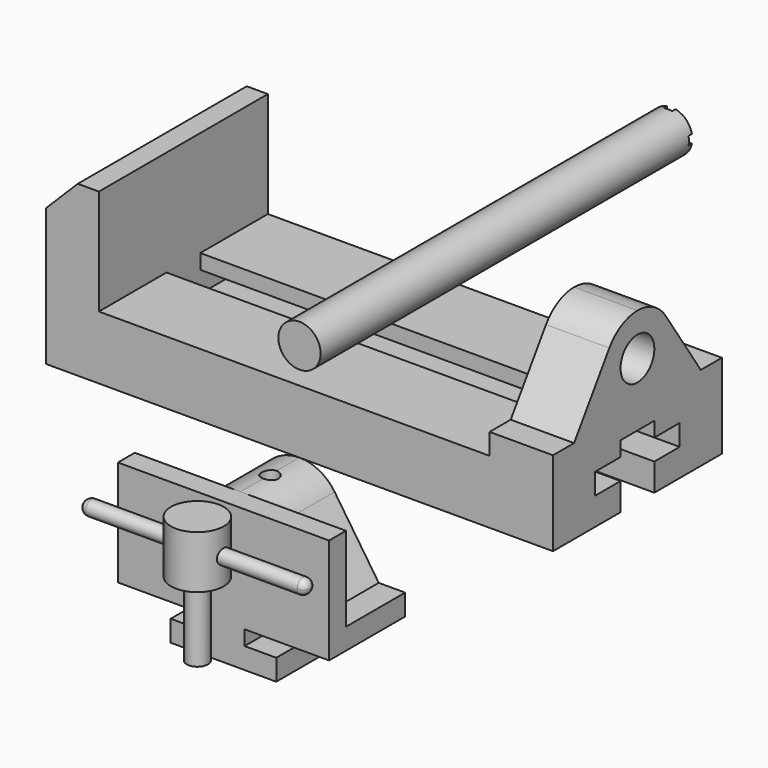
from build123d import *

# Parameters (mm, degrees)
F1_DEPTH  = 127
F2_R      = 12.7
F3_DEPTH  = 38.1
F4_DEPTH  = 273.05
F5_R      = 12.7
F6_DEPTH  = 57.15
F7_R      = 5.08
F8_DEPTH  = 31.75
F9_DEPTH  = 44.45
F10_DEPTH = 44.45
F11_R     = 12.7
F12_DEPTH = 279.4
F14_DEPTH = 19.05
F15_DEPTH = 2.54
F16_R     = 15.875
F17_DEPTH = 31.75
F18_R     = 6.35
F19_DEPTH = 44.45
F20_R     = 4.445
F21_DEPTH = 127


with BuildPart() as f1:
    # F0 (on Front) → F1 (new body)
    with BuildSketch(Plane.XZ):
        Polygon((-152.4, 82.55), (-152.4, 0), (152.4, 0), (152.4, 101.6), (114.3, 101.6), (114.3, 38.1), (-120.65, 38.1), (-120.65, 101.6), (-133.35, 101.6), align=None)
    extrude(amount=-F1_DEPTH)

    # F2 (on face) → F3 (cut, through all)
    with BuildSketch(Plane.YZ.offset(152.4)):
        with BuildLine():
            Line((0, 101.6), (0, 50.8))
            Line((0, 50.8), (15.875, 50.8))
            Line((15.875, 50.8), (42.4065743945, 90.3501730104))
            ThreePointArc((42.4065743945, 90.3501730104), (51.5470588235, 98.6117647059), (63.5, 101.6))
            Line((63.5, 101.6), (0, 101.6))
        make_face()
        with BuildLine():
            Line((127, 101.6), (63.5, 101.6))
            ThreePointArc((63.5, 101.6), (75.4529411765, 98.6117647059), (84.5934256055, 90.3501730104))
            Line((84.5934256055, 90.3501730104), (111.125, 50.8))
            Line((111.125, 50.8), (127, 50.8))
            Line((127, 50.8), (127, 101.6))
        make_face()
        with Locations((63.5, 76.2)):
            Circle(F2_R)
    extrude(amount=-F3_DEPTH, mode=Mode.SUBTRACT)

    # F2 (on face) → F4 (cut, through all)
    with BuildSketch(Plane.YZ.offset(152.4)):
        Polygon((50.8, 16.51), (50.8, 0), (76.2, 0), (76.2, 16.51), (95.25, 16.51), (95.25, 29.21), (76.2, 29.21), (76.2, 38.1), (50.8, 38.1), (50.8, 29.21), (31.75, 29.21), (31.75, 16.51), align=None)
    extrude(amount=-F4_DEPTH, mode=Mode.SUBTRACT)


with BuildPart() as f6:
    # F5 (on Front) → F6 (new body)
    with BuildSketch(Plane.XZ):
        with BuildLine():
            Line((-63.5, -50.8), (-63.5, -63.5))
            Line((-63.5, -63.5), (-12.7, -63.5))
            Line((-12.7, -63.5), (-12.7, -72.39))
            Line((-12.7, -72.39), (-31.75, -72.39))
            Line((-31.75, -72.39), (-31.75, -85.09))
            Line((-31.75, -85.09), (31.75, -85.09))
            Line((31.75, -85.09), (31.75, -72.39))
            Line((31.75, -72.39), (12.7, -72.39))
            Line((12.7, -72.39), (12.7, -63.5))
            Line((12.7, -63.5), (63.5, -63.5))
            Line((63.5, -63.5), (63.5, -50.8))
            Line((63.5, -50.8), (47.625, -50.8))
            Line((47.625, -50.8), (21.0934256055, -11.2498269896))
            ThreePointArc((21.0934256055, -11.2498269896), (11.9529411765, -2.9882352941), (0, 0))
            ThreePointArc((0, 0), (-11.9529411765, -2.9882352941), (-21.0934256055, -11.2498269896))
            Line((-21.0934256055, -11.2498269896), (-47.625, -50.8))
            Line((-47.625, -50.8), (-63.5, -50.8))
        make_face()
        with Locations((0, -25.4)):
            Circle(F5_R, mode=Mode.SUBTRACT)
        with BuildLine():
            Line((-63.5, 0), (-63.5, -50.8))
            Line((-63.5, -50.8), (-47.625, -50.8))
            Line((-47.625, -50.8), (-21.0934256055, -11.2498269896))
            ThreePointArc((-21.0934256055, -11.2498269896), (-11.9529411765, -2.9882352941), (0, 0))
            Line((0, 0), (-63.5, 0))
        make_face()
        with BuildLine():
            Line((63.5, 0), (0, 0))
            ThreePointArc((0, 0), (11.9529411765, -2.9882352941), (21.0934256055, -11.2498269896))
            Line((21.0934256055, -11.2498269896), (47.625, -50.8))
            Line((47.625, -50.8), (63.5, -50.8))
            Line((63.5, -50.8), (63.5, 0))
        make_face()
        with Locations((0, -25.4)):
            Circle(F5_R)
    extrude(amount=F6_DEPTH)

    # F7 (on face) → F8 (cut)
    with BuildSketch(Plane.XY):
        with Locations((0, -22.225)):
            Circle(F7_R)
    extrude(amount=-F8_DEPTH, mode=Mode.SUBTRACT)

    # F5 (on Front) → F9 (cut)
    with BuildSketch(Plane.XZ):
        with BuildLine():
            Line((63.5, 0), (0, 0))
            ThreePointArc((0, 0), (11.9529411765, -2.9882352941), (21.0934256055, -11.2498269896))
            Line((21.0934256055, -11.2498269896), (47.625, -50.8))
            Line((47.625, -50.8), (63.5, -50.8))
            Line((63.5, -50.8), (63.5, 0))
        make_face()
        with BuildLine():
            Line((-63.5, 0), (-63.5, -50.8))
            Line((-63.5, -50.8), (-47.625, -50.8))
            Line((-47.625, -50.8), (-21.0934256055, -11.2498269896))
            ThreePointArc((-21.0934256055, -11.2498269896), (-11.9529411765, -2.9882352941), (0, 0))
            Line((0, 0), (-63.5, 0))
        make_face()
    extrude(amount=F9_DEPTH, mode=Mode.SUBTRACT)

    # F5 (on Front) → F10 (cut)
    with BuildSketch(Plane.XZ):
        with Locations((0, -25.4)):
            Circle(F5_R)
    extrude(amount=F10_DEPTH, mode=Mode.SUBTRACT)


with BuildPart() as f12:
    # F11 (on Front) → F12 (new body)
    with BuildSketch(Plane.XZ):
        with Locations((0, 59.2525709756)):
            Circle(F11_R)
    extrude(amount=-F12_DEPTH)

    # F13 (on face) → F14 (cut)
    with BuildSketch(Plane(origin=(0, 279.4, 0), x_dir=(-1, 0, 0), z_dir=(0, 1, 0))):
        with BuildLine():
            ThreePointArc((5.8198711326, 56.7125709756), (6.2160550871, 57.9552047381), (6.35, 59.2525709756))
            ThreePointArc((6.35, 59.2525709756), (6.2160550871, 60.549937213), (5.8198711326, 61.7925709756))
            ThreePointArc((5.8198711326, 61.7925709756), (4.4901280605, 63.7426990361), (2.54, 65.0724421082))
            ThreePointArc((2.54, 65.0724421082), (0, 65.6025709756), (-2.54, 65.0724421082))
            ThreePointArc((-2.54, 65.0724421082), (-4.4901280605, 63.7426990361), (-5.8198711326, 61.7925709756))
            ThreePointArc((-5.8198711326, 61.7925709756), (-6.35, 59.2525709756), (-5.8198711326, 56.7125709756))
            ThreePointArc((-5.8198711326, 56.7125709756), (-4.4901280605, 54.762442915), (-2.54, 53.432699843))
            ThreePointArc((-2.54, 53.432699843), (0, 52.9025709756), (2.54, 53.432699843))
            ThreePointArc((2.54, 53.432699843), (4.4901280605, 54.762442915), (5.8198711326, 56.7125709756))
        make_face()
    extrude(amount=-F14_DEPTH, mode=Mode.SUBTRACT)

    # F13 (on face) → F15 (cut)
    with BuildSketch(Plane(origin=(0, 279.4, 0), x_dir=(-1, 0, 0), z_dir=(0, 1, 0))):
        with BuildLine():
            ThreePointArc((5.8198711326, 61.7925709756), (6.2160550871, 60.549937213), (6.35, 59.2525709756))
            ThreePointArc((6.35, 59.2525709756), (6.2160550871, 57.9552047381), (5.8198711326, 56.7125709756))
            Line((5.8198711326, 56.7125709756), (12.4434078933, 56.7125709756))
            ThreePointArc((12.4434078933, 56.7125709756), (12.6356891432, 57.9761071581), (12.7, 59.2525709756))
            ThreePointArc((12.7, 59.2525709756), (12.6356891432, 60.529034793), (12.4434078933, 61.7925709756))
            Line((12.4434078933, 61.7925709756), (5.8198711326, 61.7925709756))
        make_face()
        with BuildLine():
            Line((2.54, 46.8091630822), (2.54, 53.432699843))
            ThreePointArc((2.54, 53.432699843), (0, 52.9025709756), (-2.54, 53.432699843))
            Line((-2.54, 53.432699843), (-2.54, 46.8091630822))
            ThreePointArc((-2.54, 46.8091630822), (0, 46.5525709756), (2.54, 46.8091630822))
        make_face()
        with BuildLine():
            ThreePointArc((-5.8198711326, 56.7125709756), (-6.35, 59.2525709756), (-5.8198711326, 61.7925709756))
            Line((-5.8198711326, 61.7925709756), (-12.4434078933, 61.7925709756))
            ThreePointArc((-12.4434078933, 61.7925709756), (-12.7, 59.2525709756), (-12.4434078933, 56.7125709756))
            Line((-12.4434078933, 56.7125709756), (-5.8198711326, 56.7125709756))
        make_face()
        with BuildLine():
            ThreePointArc((-2.54, 65.0724421082), (0, 65.6025709756), (2.54, 65.0724421082))
            Line((2.54, 65.0724421082), (2.54, 71.6959788689))
            ThreePointArc((2.54, 71.6959788689), (0, 71.9525709756), (-2.54, 71.6959788689))
            Line((-2.54, 71.6959788689), (-2.54, 65.0724421082))
        make_face()
    extrude(amount=-F15_DEPTH, mode=Mode.SUBTRACT)


with BuildPart() as f17:
    # F16 (on Top) → F17 (new body)
    with BuildSketch(Plane.XY):
        with Locations((0, -76.7882447423)):
            Circle(F16_R)
    extrude(amount=-F17_DEPTH)

    # F18 (on face) → F19 (join)
    with BuildSketch(Plane(origin=(0, 0, -31.75), x_dir=(1, 0, 0), z_dir=(0, 0, -1))):
        with Locations((0, 76.7882447423)):
            Circle(F18_R)
    extrude(amount=F19_DEPTH)

    # F20 (on face) → F21 (join)
    with BuildSketch(Plane.YZ.offset(63.5)):
        with Locations((-76.7842, -15.875)):
            Circle(F20_R)
    extrude(amount=-F21_DEPTH)

    # F22 (on face) → F23 (revolve)
    with BuildSketch(Plane.YZ.offset(63.5)):
        with BuildLine():
            ThreePointArc((-72.3392, -15.875), (-73.6411103576, -12.7319103576), (-76.7842, -11.43))
            Line((-76.7842, -11.43), (-76.7842, -20.32))
            ThreePointArc((-76.7842, -20.32), (-73.6411103576, -19.0180896424), (-72.3392, -15.875))
        make_face()
    revolve(axis=Axis((63.5, -76.7842, -15.875), (0, 0, -1)))

    # F24 (on face) → F25 (revolve)
    with BuildSketch(Plane(origin=(-63.5, 0, 0), x_dir=(0, -1, 0), z_dir=(-1, 0, 0))):
        with BuildLine():
            ThreePointArc((81.2292, -15.875), (76.7842, -11.43), (72.3392, -15.875))
            Line((72.3392, -15.875), (81.2292, -15.875))
        make_face()
    revolve(axis=Axis((-63.5, -76.7159111088, -15.875), (0, -1, 0)))


solid = Compound([f1.part, f6.part, f12.part, f17.part])
